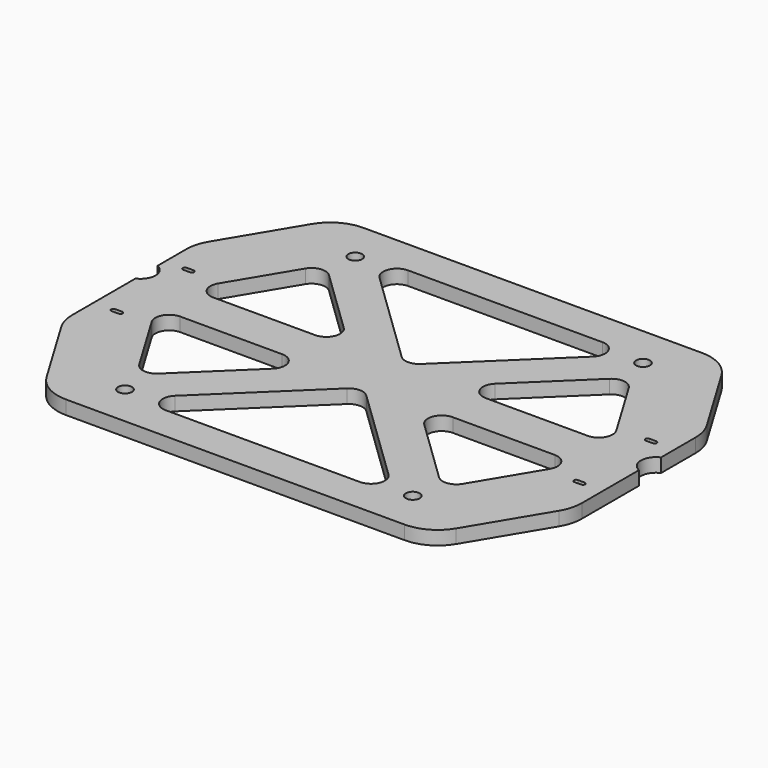
from build123d import *

# Parameters (mm, degrees)
F1_DEPTH = 10
F2_R     = 10
F3_R     = 30
F5_DEPTH = 10.001
F6_R     = 5
F7_DEPTH = 10.001
F9_DEPTH = 10.001


with BuildPart() as f1:
    # F0 (on Top) → F1 (new body)
    with BuildSketch(Plane.XY):
        Polygon((140, 135), (-140, 135), (-185, 60), (-185, -60), (-140, -135), (140, -135), (185, -60), (185, 60), align=None)
        Polygon((-110.982108, -86.180622), (-153.690481, -15), (-37.165167, -15), align=None, mode=Mode.SUBTRACT)
        Polygon((95.345744, -110), (-95.345744, -110), (0, -18.059461), align=None, mode=Mode.SUBTRACT)
        Polygon((37.165167, -15), (153.690481, -15), (110.982108, -86.180622), align=None, mode=Mode.SUBTRACT)
        Polygon((-153.690481, 15), (-110.982108, 86.180622), (-37.165167, 15), align=None, mode=Mode.SUBTRACT)
        Polygon((0, 18.059461), (-95.345744, 110), (95.345744, 110), align=None, mode=Mode.SUBTRACT)
        Polygon((37.165167, 15), (110.982108, 86.180622), (153.690481, 15), align=None, mode=Mode.SUBTRACT)
    extrude(amount=F1_DEPTH)

    # F2
    f2_edges = [f1.edges().sort_by_distance(p)[0] for p in [
        (-110.982108, 86.180622, 5),
        (-153.690481, 15, 5),
        (-37.165167, 15, 5),
        (153.690481, 15, 5),
        (0, 18.059461, 5),
        (-95.345744, 110, 5),
        (95.345744, 110, 5),
        (-153.690481, -15, 5),
        (-37.165167, -15, 5),
        (-110.982108, -86.180622, 5),
        (0, -18.059461, 5),
        (-95.345744, -110, 5),
        (95.345744, -110, 5),
        (153.690481, -15, 5),
        (37.165167, -15, 5),
        (110.982108, -86.180622, 5),
        (110.982108, 86.180622, 5),
        (37.165167, 15, 5),
    ]]
    fillet(f2_edges, radius=F2_R)

    # F3
    f3_edges = [f1.edges().sort_by_distance(p)[0] for p in [
        (-185, 60, 5),
        (-140, 135, 5),
        (-185, -60, 5),
        (-140, -135, 5),
        (140, -135, 5),
        (185, -60, 5),
        (185, 60, 5),
        (140, 135, 5),
    ]]
    fillet(f3_edges, radius=F3_R)

    # F4 (on face) → F5 (cut, through all)
    with BuildSketch(Plane.XY.offset(10)):
        with BuildLine():
            ThreePointArc((-170.5, -30.9), (-172.1, -32.5), (-170.5, -34.1))
            Line((-170.5, -34.1), (-165.5, -34.1))
            ThreePointArc((-165.5, -34.1), (-163.9, -32.5), (-165.5, -30.9))
            Line((-165.5, -30.9), (-170.5, -30.9))
        make_face()
        with BuildLine():
            ThreePointArc((165.5, -30.9), (163.9, -32.5), (165.5, -34.1))
            Line((165.5, -34.1), (170.5, -34.1))
            ThreePointArc((170.5, -34.1), (172.1, -32.5), (170.5, -30.9))
            Line((170.5, -30.9), (165.5, -30.9))
        make_face()
        with BuildLine():
            ThreePointArc((165.5, 34.1), (163.9, 32.5), (165.5, 30.9))
            Line((165.5, 30.9), (170.5, 30.9))
            ThreePointArc((170.5, 30.9), (172.1, 32.5), (170.5, 34.1))
            Line((170.5, 34.1), (165.5, 34.1))
        make_face()
        with BuildLine():
            ThreePointArc((-170.5, 34.1), (-172.1, 32.5), (-170.5, 30.9))
            Line((-170.5, 30.9), (-165.5, 30.9))
            ThreePointArc((-165.5, 30.9), (-163.9, 32.5), (-165.5, 34.1))
            Line((-165.5, 34.1), (-170.5, 34.1))
        make_face()
    extrude(amount=-F5_DEPTH, mode=Mode.SUBTRACT)

    # F6 (on face) → F7 (cut, through all)
    with BuildSketch(Plane.XY.offset(10)):
        with Locations((-104.5, 104.5)):
            Circle(F6_R)
        with Locations((104.5, 104.5)):
            Circle(F6_R)
        with Locations((-104.5, -104.5)):
            Circle(F6_R)
        with Locations((104.5, -104.5)):
            Circle(F6_R)
    extrude(amount=-F7_DEPTH, mode=Mode.SUBTRACT)

    # F8 (on face) → F9 (cut, through all)
    with BuildSketch(Plane.XY.offset(10)):
        with BuildLine():
            Line((-185, 25.637901), (-185, 5.637901))
            ThreePointArc((-185, 5.637901), (-178.436607, 15.637901), (-185, 25.637901))
        make_face()
        with BuildLine():
            ThreePointArc((185, 20.257118), (178.436607, 10.257118), (185, 0.257118))
            Line((185, 0.257118), (185, 20.257118))
        make_face()
    extrude(amount=-F9_DEPTH, mode=Mode.SUBTRACT)


solid = f1.part
